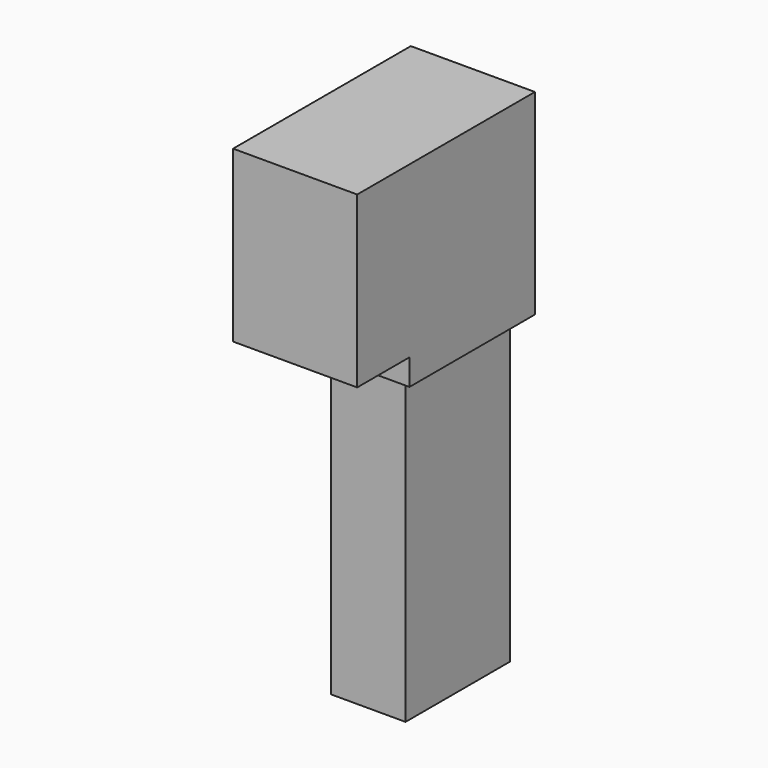
from build123d import *

# Parameters (mm, degrees)
SKETCH_W        = 9.5
SKETCH_H        = 17
PAD_DEPTH       = 39
SKETCH001_W     = 9.5
SKETCH001_H     = 26
POCKET_DEPTH    = 5
SKETCH002_W     = 1.9
SKETCH002_H     = 24
POCKET001_DEPTH = 17
COPYSKETCH003_W = 9.5
COPYSKETCH003_H = 24
POCKET002_DEPTH = 7


with BuildPart() as part:
    # Sketch → Pad (new body)
    with BuildSketch(Plane.XY):
        with Locations((0, 8.5)):
            Rectangle(SKETCH_W, SKETCH_H)
    extrude(amount=PAD_DEPTH)

    # Sketch001 (on Face3 of Pad) → Pocket (cut)
    with BuildSketch(Plane.XZ):
        with Locations((0, 13)):
            Rectangle(SKETCH001_W, SKETCH001_H)
    extrude(amount=-POCKET_DEPTH, mode=Mode.SUBTRACT)

    # Sketch002 (on Face1 of Pocket) → Pocket001 (cut)
    with BuildSketch(Plane(origin=(0, 17, 0), x_dir=(-1, 0, 0), z_dir=(0, 1, 0))):
        with Locations((-3.8, 12)):
            Rectangle(SKETCH002_W, SKETCH002_H)
        with Locations((3.8, 12)):
            Rectangle(SKETCH002_W, SKETCH002_H)
    extrude(amount=-POCKET001_DEPTH, mode=Mode.SUBTRACT)

    # CopySketch003 → Pocket002 (cut)
    with BuildSketch(Plane.XZ):
        with Locations((0, 12)):
            Rectangle(COPYSKETCH003_W, COPYSKETCH003_H)
    extrude(amount=-POCKET002_DEPTH, mode=Mode.SUBTRACT)


solid = part.part
